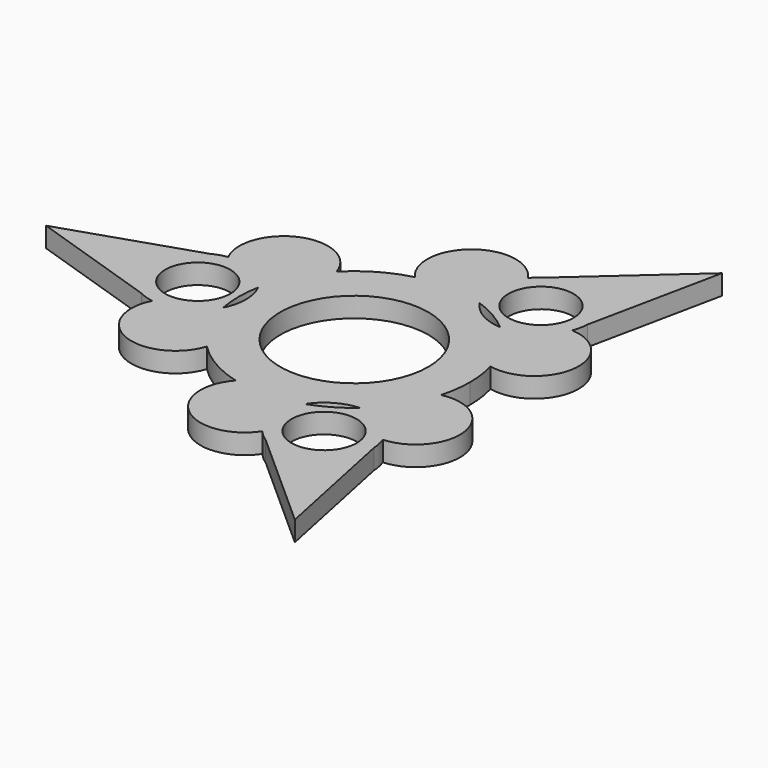
from build123d import *

# Parameters (mm, degrees)
F0_R     = 11.15
F0_R_2   = 4.9
F1_DEPTH = 3


with BuildPart() as f1:
    # F0 (on Top) → F1 (new body)
    with BuildSketch(Plane.XY):
        with BuildLine():
            ThreePointArc((16.7796476189, -4.6504143809), (17.2532989655, -2.3466152082), (17.4121488659, 0))
            ThreePointArc((17.4121488659, 0), (17.2532989655, 2.3466152082), (16.7796476189, 4.6504143809))
            ThreePointArc((16.7796476189, 4.6504143809), (14.716353257, 9.3065501096), (11.394099918, 13.1665263143))
            ThreePointArc((11.394099918, 13.1665263143), (8.1561123591, 14.1268009982), (5.7054963088, 16.4508431394))
            ThreePointArc((5.7054963088, 16.4508431394), (0.7015321881, 17.3980108264), (-4.3624468175, 16.8568082949))
            ThreePointArc((-4.3624468175, 16.8568082949), (-8.7060744329, 15.0793632523), (-12.4172008014, 12.2063939141))
            ThreePointArc((-12.4172008014, 12.2063939141), (-15.417885445, 8.0914607168), (-17.0995962268, 3.2843168251))
            ThreePointArc((-17.0995962268, 3.2843168251), (-16.5118174482, 1.6886896474), (-16.3122247182, 0))
            ThreePointArc((-16.3122247182, 0), (-16.5118174482, -1.6886896474), (-17.0995962268, -3.2843168251))
            ThreePointArc((-17.0995962268, -3.2843168251), (-15.417885445, -8.0914607168), (-12.4172008014, -12.2063939141))
            ThreePointArc((-12.4172008014, -12.2063939141), (-8.7060744329, -15.0793632523), (-4.3624468175, -16.8568082949))
            ThreePointArc((-4.3624468175, -16.8568082949), (0.7015321881, -17.3980108264), (5.7054963088, -16.4508431394))
            ThreePointArc((5.7054963088, -16.4508431394), (8.1561123591, -14.1268009982), (11.394099918, -13.1665263143))
            ThreePointArc((11.394099918, -13.1665263143), (14.716353257, -9.3065501096), (16.7796476189, -4.6504143809))
        make_face()
        Circle(F0_R, mode=Mode.SUBTRACT)
        with BuildLine():
            ThreePointArc((11.394099918, 13.1665263143), (14.716353257, 9.3065501096), (16.7796476189, 4.6504143809))
            ThreePointArc((16.7796476189, 4.6504143809), (24.783966475, 10.2775233545), (18.5440753296, 17.8139173361))
            ThreePointArc((18.5440753296, 17.8139173361), (15.7254563935, 14.3265542792), (11.394099918, 13.1665263143))
        make_face()
        with BuildLine():
            ThreePointArc((18.5440753296, -17.8139173361), (24.783966475, -10.2775233545), (16.7796476189, -4.6504143809))
            ThreePointArc((16.7796476189, -4.6504143809), (14.716353257, -9.3065501096), (11.394099918, -13.1665263143))
            ThreePointArc((11.394099918, -13.1665263143), (15.7254563935, -14.3265542792), (18.5440753296, -17.8139173361))
        make_face()
        with BuildLine():
            ThreePointArc((5.7054963088, 16.4508431394), (8.7060744329, 15.0793632523), (11.394099918, 13.1665263143))
            ThreePointArc((11.394099918, 13.1665263143), (15.7254563935, 14.3265542792), (18.5440753296, 17.8139173361))
            Line((18.5440753296, 17.8139173361), (19.0141035967, 20.0748320902))
            ThreePointArc((19.0141035967, 20.0748320902), (19.0195759115, 20.2373140649), (19.0214003227, 20.3998779288))
            ThreePointArc((19.0214003227, 20.3998779288), (15.2579410266, 26.7526568049), (7.8782627684, 26.50411279))
            Line((7.8782627684, 26.50411279), (6.1552672891, 24.9665989932))
            ThreePointArc((6.1552672891, 24.9665989932), (4.5444317578, 20.7819218625), (5.7054963088, 16.4508431394))
        make_face()
        with Locations((11.7778750136, 20.3998779288)):
            Circle(F0_R_2, mode=Mode.SUBTRACT)
        with BuildLine():
            Line((19.0141035967, 20.0748320902), (18.5440753296, 17.8139173361))
            ThreePointArc((18.5440753296, 17.8139173361), (18.8697674021, 18.9255234077), (19.0141035967, 20.0748320902))
        make_face()
        with BuildLine():
            ThreePointArc((18.5440753296, -17.8139173361), (15.7254563935, -14.3265542792), (11.394099918, -13.1665263143))
            ThreePointArc((11.394099918, -13.1665263143), (8.7060744329, -15.0793632523), (5.7054963088, -16.4508431394))
            ThreePointArc((5.7054963088, -16.4508431394), (4.5444317578, -20.7819218625), (6.1552672891, -24.9665989932))
            Line((6.1552672891, -24.9665989932), (7.8782627684, -26.50411279))
            ThreePointArc((7.8782627684, -26.50411279), (15.2579410266, -26.7526568049), (19.0214003227, -20.3998779288))
            ThreePointArc((19.0214003227, -20.3998779288), (19.0195759115, -20.2373140649), (19.0141035967, -20.0748320902))
            Line((19.0141035967, -20.0748320902), (18.5440753296, -17.8139173361))
        make_face()
        with Locations((11.7778750136, -20.3998779288)):
            Circle(F0_R_2, mode=Mode.SUBTRACT)
        with BuildLine():
            ThreePointArc((19.0141035967, -20.0748320902), (18.8697674021, -18.9255234077), (18.5440753296, -17.8139173361))
            Line((18.5440753296, -17.8139173361), (19.0141035967, -20.0748320902))
        make_face()
        with BuildLine():
            ThreePointArc((-4.3624468175, 16.8568082949), (0.7015321881, 17.3980108264), (5.7054963088, 16.4508431394))
            ThreePointArc((5.7054963088, 16.4508431394), (4.5444317578, 20.7819218625), (6.1552672891, 24.9665989932))
            ThreePointArc((6.1552672891, 24.9665989932), (-3.4913869245, 26.6023062511), (-4.3624468175, 16.8568082949))
        make_face()
        with BuildLine():
            ThreePointArc((19.0214003227, 20.3998779288), (19.0195759115, 20.2373140649), (19.0141035967, 20.0748320902))
            Line((19.0141035967, 20.0748320902), (23.1915153563, 40.1688829016))
            Line((23.1915153563, 40.1688829016), (7.8782627684, 26.50411279))
            ThreePointArc((7.8782627684, 26.50411279), (15.2579410266, 26.7526568049), (19.0214003227, 20.3998779288))
        make_face()
        with BuildLine():
            ThreePointArc((6.1552672891, -24.9665989932), (4.5444317578, -20.7819218625), (5.7054963088, -16.4508431394))
            ThreePointArc((5.7054963088, -16.4508431394), (0.7015321881, -17.3980108264), (-4.3624468175, -16.8568082949))
            ThreePointArc((-4.3624468175, -16.8568082949), (-3.4913869245, -26.6023062511), (6.1552672891, -24.9665989932))
        make_face()
        with BuildLine():
            Line((23.1915153563, -40.1688829016), (19.0141035967, -20.0748320902))
            ThreePointArc((19.0141035967, -20.0748320902), (19.0195759115, -20.2373140649), (19.0214003227, -20.3998779288))
            ThreePointArc((19.0214003227, -20.3998779288), (15.2579410266, -26.7526568049), (7.8782627684, -26.50411279))
            Line((7.8782627684, -26.50411279), (23.1915153563, -40.1688829016))
        make_face()
        with BuildLine():
            ThreePointArc((7.8782627684, 26.50411279), (6.95510035, 25.8044596376), (6.1552672891, 24.9665989932))
            Line((6.1552672891, 24.9665989932), (7.8782627684, 26.50411279))
        make_face()
        with BuildLine():
            Line((7.8782627684, -26.50411279), (6.1552672891, -24.9665989932))
            ThreePointArc((6.1552672891, -24.9665989932), (6.95510035, -25.8044596376), (7.8782627684, -26.50411279))
        make_face()
        with BuildLine():
            ThreePointArc((-17.0995962268, 3.2843168251), (-15.417885445, 8.0914607168), (-12.4172008014, 12.2063939141))
            ThreePointArc((-12.4172008014, 12.2063939141), (-21.2925795505, 16.3247828966), (-24.6993426188, 7.1526816571))
            ThreePointArc((-24.6993426188, 7.1526816571), (-20.2698881513, 6.4553675833), (-17.0995962268, 3.2843168251))
        make_face()
        with BuildLine():
            ThreePointArc((-24.6993426188, -7.1526816571), (-21.2925795505, -16.3247828966), (-12.4172008014, -12.2063939141))
            ThreePointArc((-12.4172008014, -12.2063939141), (-15.417885445, -8.0914607168), (-17.0995962268, -3.2843168251))
            ThreePointArc((-17.0995962268, -3.2843168251), (-20.2698881513, -6.4553675833), (-24.6993426188, -7.1526816571))
        make_face()
        with BuildLine():
            ThreePointArc((-17.0995962268, -3.2843168251), (-17.4121488659, 0), (-17.0995962268, 3.2843168251))
            ThreePointArc((-17.0995962268, 3.2843168251), (-20.2698881513, 6.4553675833), (-24.6993426188, 7.1526816571))
            Line((-24.6993426188, 7.1526816571), (-26.8923663651, 6.4292806998))
            ThreePointArc((-26.8923663651, 6.4292806998), (-30.7992753364, 0), (-26.8923663651, -6.4292806998))
            Line((-26.8923663651, -6.4292806998), (-24.6993426188, -7.1526816571))
            ThreePointArc((-24.6993426188, -7.1526816571), (-20.2698881513, -6.4553675833), (-17.0995962268, -3.2843168251))
        make_face()
        with Locations((-23.5557500273, 0)):
            Circle(F0_R_2, mode=Mode.SUBTRACT)
        with BuildLine():
            Line((-26.8923663651, 6.4292806998), (-24.6993426188, 7.1526816571))
            ThreePointArc((-24.6993426188, 7.1526816571), (-25.8248677521, 6.8789362299), (-26.8923663651, 6.4292806998))
        make_face()
        with BuildLine():
            ThreePointArc((-26.8923663651, -6.4292806998), (-25.8248677521, -6.8789362299), (-24.6993426188, -7.1526816571))
            Line((-24.6993426188, -7.1526816571), (-26.8923663651, -6.4292806998))
        make_face()
        with BuildLine():
            ThreePointArc((-26.8923663651, -6.4292806998), (-30.7992753364, 0), (-26.8923663651, 6.4292806998))
            Line((-26.8923663651, 6.4292806998), (-46.3830307126, 0))
            Line((-46.3830307126, 0), (-26.8923663651, -6.4292806998))
        make_face()
    extrude(amount=F1_DEPTH)


solid = f1.part
